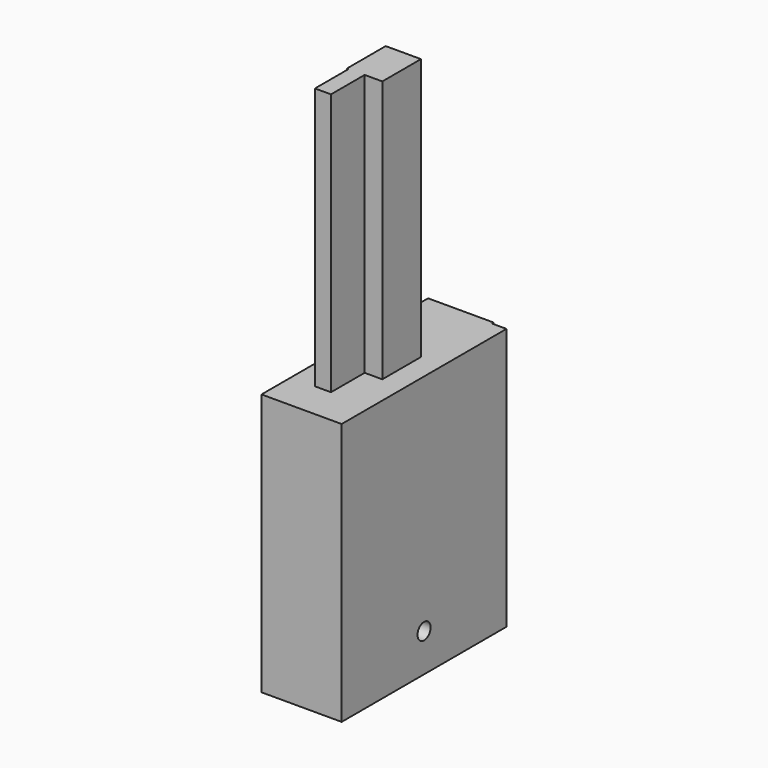
from build123d import *

# Parameters (mm, degrees)
F0_W           = 31.0422331095
F0_H           = 79.8228383064
F1_DEPTH       = 101.6
F3_D           = 6.35
F5_D           = 7.493
F5_DEPTH       = 12.7
F5_CBORE_D     = 8.89
F5_CBORE_DEPTH = 6.35
F5_TIP         = 2.2511243092
F6_W           = 47.3317652941
F6_H           = 33.903124404
F7_DEPTH       = 25.4
F8_W           = 6.2107620761
F8_H           = 16.3113800809
F8_H_2         = 9.3631437048
F9_DEPTH       = 101.6


with BuildPart() as f1:
    # F0 (on Top) → F1 (new body)
    with BuildSketch(Plane.XY):
        Rectangle(F0_W, F0_H)
    extrude(amount=F1_DEPTH)

    # F3 (through all)
    with Locations(Plane(origin=(-15.5211165547, 0, 0), x_dir=(0, -1, 0), z_dir=(-1, 0, 0))):
        with Locations((0, 14.7344674915)):
            Hole(F3_D / 2)

    # F5
    with Locations(Plane(origin=(-15.5211165547, 0, 0), x_dir=(0, -1, 0), z_dir=(-1, 0, 0))):
        with Locations((0, 14.7344674915)):
            CounterBoreHole(F5_D / 2, F5_CBORE_D / 2, F5_CBORE_DEPTH, depth=F5_DEPTH)
            with Locations((0, 0, -(F5_DEPTH + F5_TIP / 2))):  # 118° drill point
                Cone(0, F5_D / 2, F5_TIP, mode=Mode.SUBTRACT)

    # F6 (on face) → F7 (join)
    with BuildSketch(Plane(origin=(-15.5211165547, 0, 0), x_dir=(0, -1, 0), z_dir=(-1, 0, 0))):
        with Locations((-17.0762408525, 84.648437798)):
            Rectangle(F6_W, F6_H)
    extrude(amount=-F7_DEPTH)

    # F8 (on face) → F9 (join)
    with BuildSketch(Plane.XY.offset(101.6)):
        with Locations((-3.105381038, -17.5188337453)):
            Rectangle(F8_W, F8_H)
        Polygon((-6.8292533979, 9.3631437048), (-6.8292533979, -9.3631437048), (-6.2107620761, -9.3631437048), (-6.2107620761, 0), (0, 0), (0, -9.3631437048), (6.8292533979, -9.3631437048), (6.8292533979, 9.3631437048), align=None)
        with Locations((-3.105381038, -4.6815718524)):
            Rectangle(F8_W, F8_H_2)
        with Locations((-3.105381038, -17.5188337453)):
            Rectangle(F8_W, F8_H)
        with Locations((-3.105381038, -4.6815718524)):
            Rectangle(F8_W, F8_H_2)
    extrude(amount=F9_DEPTH)


solid = f1.part
